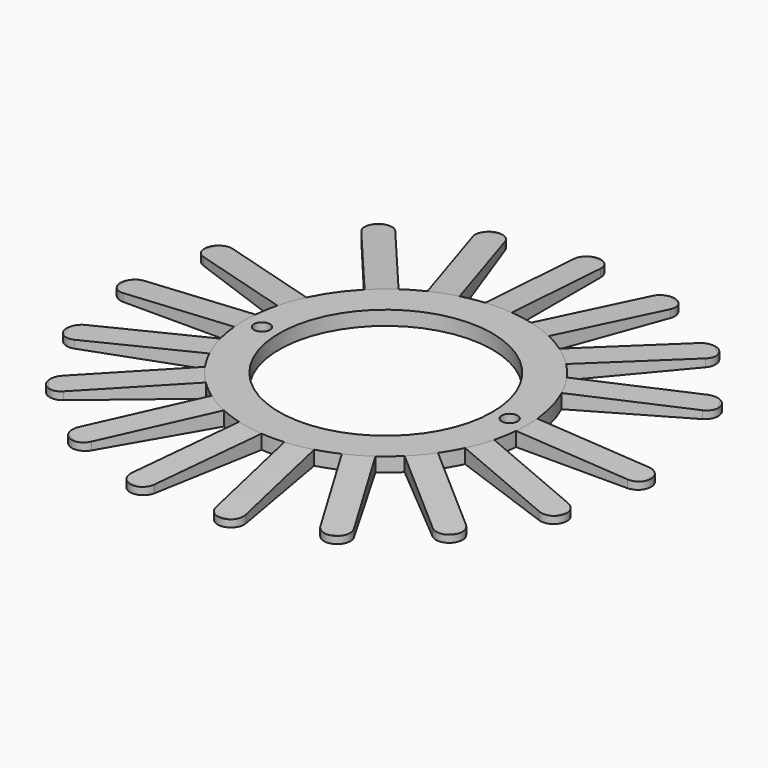
from build123d import *

# Parameters (mm, degrees)
F0_R      = 8
F0_R_2    = 6.0266666667
F1_DEPTH  = 0.34
F3_DEPTH  = 0.34
F5_COUNT  = 11
F5_ANGLE  = 200
F7_DEPTH  = 0.34
F8_COUNT  = 6
F8_ANGLE  = 100
F10_R     = 0.4499999881
F11_DEPTH = 0.34
F12_SCALE = 3
F16_DEPTH = 2.22
F14_DEPTH = 0.2


with BuildPart() as f1:
    # F0 (on Top) → F1 (new body)
    with BuildSketch(Plane.XY):
        Circle(F0_R)
        Circle(F0_R_2, mode=Mode.SUBTRACT)
    extrude(amount=F1_DEPTH)


with BuildPart() as f3:
    # F2 (on Top) → F3 (new body)
    with BuildSketch(Plane.XY):
        with BuildLine():
            Line((7.964766161, -0.75), (14.25, -0.75))
            ThreePointArc((14.25, -0.75), (15, 0), (14.25, 0.75))
            Line((14.25, 0.75), (7.964766161, 0.75))
            Line((7.964766161, 0.75), (7.964766161, -0.75))
        make_face()
    extrude(amount=F3_DEPTH)


with BuildPart() as f5_1:
    # F5: instance of F3
    add(f3.part.rotate(Axis((0, 0, 2.6635807008), (0, 0, -1)), 1 * F5_ANGLE / (F5_COUNT - 1)))


with BuildPart() as f5_2:
    # F5: instance of F3
    add(f3.part.rotate(Axis((0, 0, 2.6635807008), (0, 0, -1)), 2 * F5_ANGLE / (F5_COUNT - 1)))


with BuildPart() as f5_3:
    # F5: instance of F3
    add(f3.part.rotate(Axis((0, 0, 2.6635807008), (0, 0, -1)), 3 * F5_ANGLE / (F5_COUNT - 1)))


with BuildPart() as f5_4:
    # F5: instance of F3
    add(f3.part.rotate(Axis((0, 0, 2.6635807008), (0, 0, -1)), 4 * F5_ANGLE / (F5_COUNT - 1)))


with BuildPart() as f5_5:
    # F5: instance of F3
    add(f3.part.rotate(Axis((0, 0, 2.6635807008), (0, 0, -1)), 5 * F5_ANGLE / (F5_COUNT - 1)))


with BuildPart() as f5_6:
    # F5: instance of F3
    add(f3.part.rotate(Axis((0, 0, 2.6635807008), (0, 0, -1)), 6 * F5_ANGLE / (F5_COUNT - 1)))


with BuildPart() as f5_7:
    # F5: instance of F3
    add(f3.part.rotate(Axis((0, 0, 2.6635807008), (0, 0, -1)), 7 * F5_ANGLE / (F5_COUNT - 1)))


with BuildPart() as f5_8:
    # F5: instance of F3
    add(f3.part.rotate(Axis((0, 0, 2.6635807008), (0, 0, -1)), 8 * F5_ANGLE / (F5_COUNT - 1)))


with BuildPart() as f5_9:
    # F5: instance of F3
    add(f3.part.rotate(Axis((0, 0, 2.6635807008), (0, 0, -1)), 9 * F5_ANGLE / (F5_COUNT - 1)))


with BuildPart() as f5_10:
    # F5: instance of F3
    add(f3.part.rotate(Axis((0, 0, 2.6635807008), (0, 0, -1)), 10 * F5_ANGLE / (F5_COUNT - 1)))


with BuildPart() as f7:
    # F6 (on Top) → F7 (new body)
    with BuildSketch(Plane.XY):
        with BuildLine():
            Line((6.6536841774, 2.9754809472), (12.7158620039, 6.4754809472))
            ThreePointArc((12.7158620039, 6.4754809472), (12.9903810568, 7.5), (11.9658620039, 7.7745190528))
            Line((11.9658620039, 7.7745190528), (5.9036841774, 4.2745190528))
            Line((5.9036841774, 4.2745190528), (6.6536841774, 2.9754809472))
        make_face()
    extrude(amount=F7_DEPTH)


with BuildPart() as f8_1:
    # F8: instance of F7
    add(f7.part.rotate(Axis((0, 0, 2.6635807008), (0, 0, 1)), 1 * F8_ANGLE / (F8_COUNT - 1)))


with BuildPart() as f8_2:
    # F8: instance of F7
    add(f7.part.rotate(Axis((0, 0, 2.6635807008), (0, 0, 1)), 2 * F8_ANGLE / (F8_COUNT - 1)))


with BuildPart() as f8_3:
    # F8: instance of F7
    add(f7.part.rotate(Axis((0, 0, 2.6635807008), (0, 0, 1)), 3 * F8_ANGLE / (F8_COUNT - 1)))


with BuildPart() as f8_4:
    # F8: instance of F7
    add(f7.part.rotate(Axis((0, 0, 2.6635807008), (0, 0, 1)), 4 * F8_ANGLE / (F8_COUNT - 1)))


with BuildPart() as f8_5:
    # F8: instance of F7
    add(f7.part.rotate(Axis((0, 0, 2.6635807008), (0, 0, 1)), 5 * F8_ANGLE / (F8_COUNT - 1)))


with BuildPart() as f1_1:
    add(f1.part)

    # F9: union F7, F8_1, F8_2, F8_3, F8_4, F8_5, F5_10, F5_9, F5_8, F5_7, F5_6, F5_4, F5_5, F5_3, F5_2, F5_1, F3
    add(f7.part)
    add(f8_1.part)
    add(f8_2.part)
    add(f8_3.part)
    add(f8_4.part)
    add(f8_5.part)
    add(f5_10.part)
    add(f5_9.part)
    add(f5_8.part)
    add(f5_7.part)
    add(f5_6.part)
    add(f5_4.part)
    add(f5_5.part)
    add(f5_3.part)
    add(f5_2.part)
    add(f5_1.part)
    add(f3.part)

    # F10 (on face) → F11 (cut, through all)
    with BuildSketch(Plane.XY.offset(0.34)):
        with Locations((7, 0)):
            Circle(F10_R)
        with Locations((-7, 0)):
            Circle(F10_R)
    extrude(amount=-F11_DEPTH, mode=Mode.SUBTRACT)


with BuildPart() as f1_2:
    # F12: moved
    add(f1_1.part.scale(F12_SCALE))


with BuildPart() as f13:
    # F15 (on Front) → F13 (revolve)
    with BuildSketch(Plane.XZ):
        Polygon((18, 2.22), (18, 0), (45, 0), (45, 1), (24, 2.22), align=None)
    revolve(axis=Axis((0, 0, 2.6635807008), (0, 0, 1)))


with BuildPart() as f16_tool:
    # F16 (intersect): a face of the model
    f16_faces = [f1_2.part.faces().sort_by_distance(p)[0] for p in [
        (33.3221492416, -0.981791915, 0),
    ]]
    extrude(f16_faces, amount=-F16_DEPTH)


with BuildPart() as f1_3:
    add(f1_2.part)

    # F16: intersect by f16_tool
    add(f16_tool.part, mode=Mode.INTERSECT)

    # F14 (add): a face of the model
    f14_faces = [f1_3.faces().sort_by_distance(p)[0] for p in [
        (33.3221492416, -0.981791915, 0),
    ]]


with BuildPart() as f13_1:
    add(f13.part)

    # F16: intersect by f16_tool
    add(f16_tool.part, mode=Mode.INTERSECT)


with BuildPart() as f1_4:
    add(f1_3.part)

    add(f13_1.part)  # F14 merges F13
    extrude(f14_faces, amount=F14_DEPTH)


solid = f1_4.part
